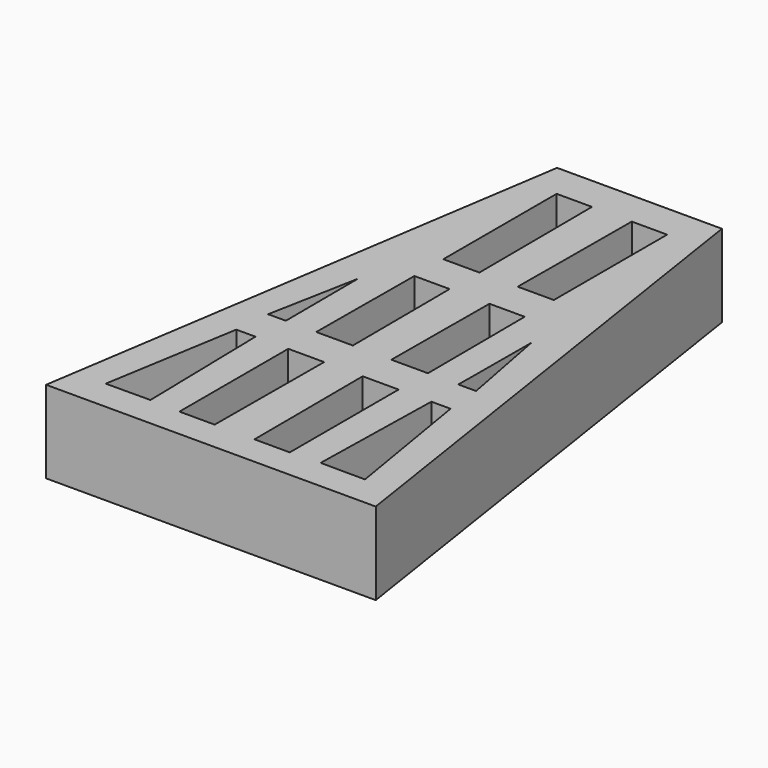
from build123d import *

# Parameters (mm, degrees)
F1_DEPTH = 2


with BuildPart() as f1:
    # F0 (on Top) → F1 (new body)
    with BuildSketch(Plane.XY):
        Polygon((2, 6.481428), (0, 6.481428), (-2, 6.481428), (-4, -6.518572), (0, -6.518572), (4, -6.518572), align=None)
        Polygon((-2.599652, -2.499616), (-2.133971, -2.499616), (-2.064983, -5.771744), (-3.14582, -5.777694), align=None, mode=Mode.SUBTRACT)
        Polygon((-1.338938, -5.800603), (-1.338938, -2.499616), (-0.466865, -2.499616), (-0.483132, -5.800603), align=None, mode=Mode.SUBTRACT)
        Polygon((-2.522781, -1.629516), (-2.104775, 0.564183), (-2.0927, -1.629516), align=None, mode=Mode.SUBTRACT)
        Polygon((-1.354969, -1.629516), (-1.338938, 1.325562), (-0.483132, 1.325562), (-0.466865, -1.629516), align=None, mode=Mode.SUBTRACT)
        Polygon((1.338938, -5.800603), (0.483132, -5.800603), (0.466865, -2.499616), (1.338938, -2.499616), align=None, mode=Mode.SUBTRACT)
        Polygon((2.599652, -2.499616), (3.14582, -5.777694), (2.064983, -5.771744), (2.133971, -2.499616), align=None, mode=Mode.SUBTRACT)
        Polygon((1.354969, -1.629516), (0.466865, -1.629516), (0.483132, 1.325562), (1.338938, 1.325562), align=None, mode=Mode.SUBTRACT)
        Polygon((2.522781, -1.629516), (2.0927, -1.629516), (2.104775, 0.564183), align=None, mode=Mode.SUBTRACT)
        Polygon((-1.34072, 5.643583), (-0.483132, 5.643583), (-0.464214, 2.206922), (-1.34072, 2.206922), align=None, mode=Mode.SUBTRACT)
        Polygon((1.34072, 5.643583), (1.34072, 2.206922), (0.464214, 2.206922), (0.483132, 5.643583), align=None, mode=Mode.SUBTRACT)
    extrude(amount=F1_DEPTH)


solid = f1.part
